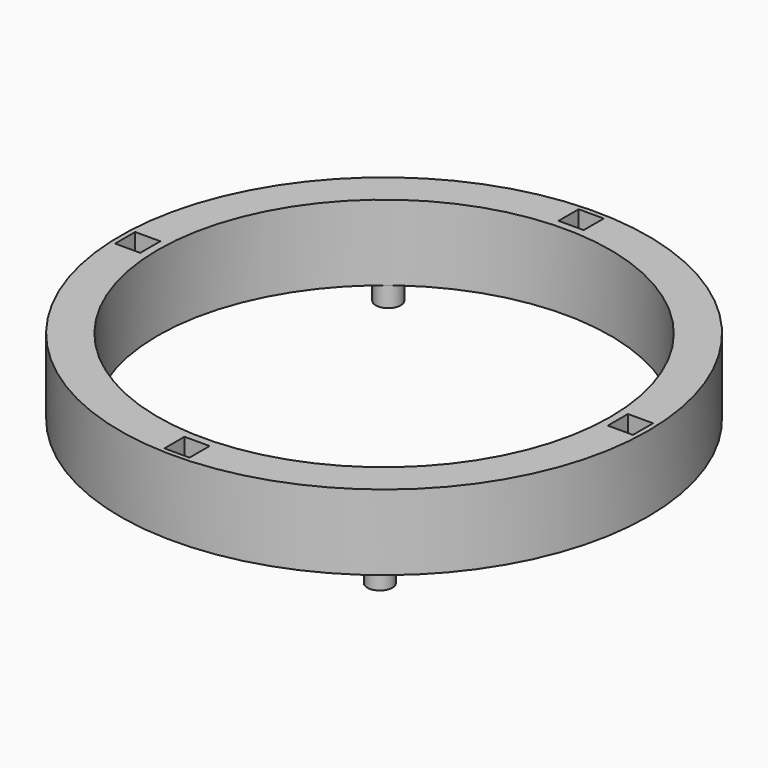
from build123d import *

# Parameters (mm, degrees)
SKETCH_R        = 52.5
SKETCH_R_2      = 45
PAD_DEPTH       = 15
SKETCH001_W     = 5
SKETCH001_H     = 5
POCKET001_DEPTH = 7
SKETCH002_R     = 2.5
HOLE_DEPTH      = 15.001
SKETCH012_R     = 2.495
PAD005_DEPTH    = 4


with BuildPart() as part:
    # Sketch → Pad (new body)
    with BuildSketch(Plane.XY):
        with Locations((52.5, 52.5)):
            Circle(SKETCH_R)
        with Locations((52.5, 52.5)):
            Circle(SKETCH_R_2, mode=Mode.SUBTRACT)
    extrude(amount=PAD_DEPTH)

    # Sketch001 (on Face4 of Pad) → Pocket001 (cut)
    with BuildSketch(Plane.XY.offset(15)):
        with Locations((3.5, 52.5)):
            Rectangle(SKETCH001_W, SKETCH001_H)
        with Locations((52.5, 3.5)):
            Rectangle(SKETCH001_W, SKETCH001_H)
        with Locations((101.5, 52.5)):
            Rectangle(SKETCH001_W, SKETCH001_H)
        with Locations((52.5, 101.5)):
            Rectangle(SKETCH001_W, SKETCH001_H)
    extrude(amount=-POCKET001_DEPTH, mode=Mode.SUBTRACT)

    # Sketch002 (on Face3 of Pocket001) → Hole (cut, through all)
    with BuildSketch(Plane.XY.offset(15)):
        with Locations((52.5, 101.5)):
            Circle(SKETCH002_R)
        with Locations((52.5, 3.5)):
            Circle(SKETCH002_R)
        with Locations((3.5, 52.5)):
            Circle(SKETCH002_R)
        with Locations((101.5, 52.5)):
            Circle(SKETCH002_R)
    extrude(amount=-HOLE_DEPTH, mode=Mode.SUBTRACT)

    # Sketch012 → Pad005 (join)
    with BuildSketch(Plane.XY):
        with Locations((81.6629049479, 90)):
            Circle(SKETCH012_R)
        with Locations((81.6629049479, 15)):
            Circle(SKETCH012_R)
        with Locations((23.3370950521, 90)):
            Circle(SKETCH012_R)
        with Locations((23.3370950521, 15)):
            Circle(SKETCH012_R)
    extrude(amount=-PAD005_DEPTH)


solid = part.part
